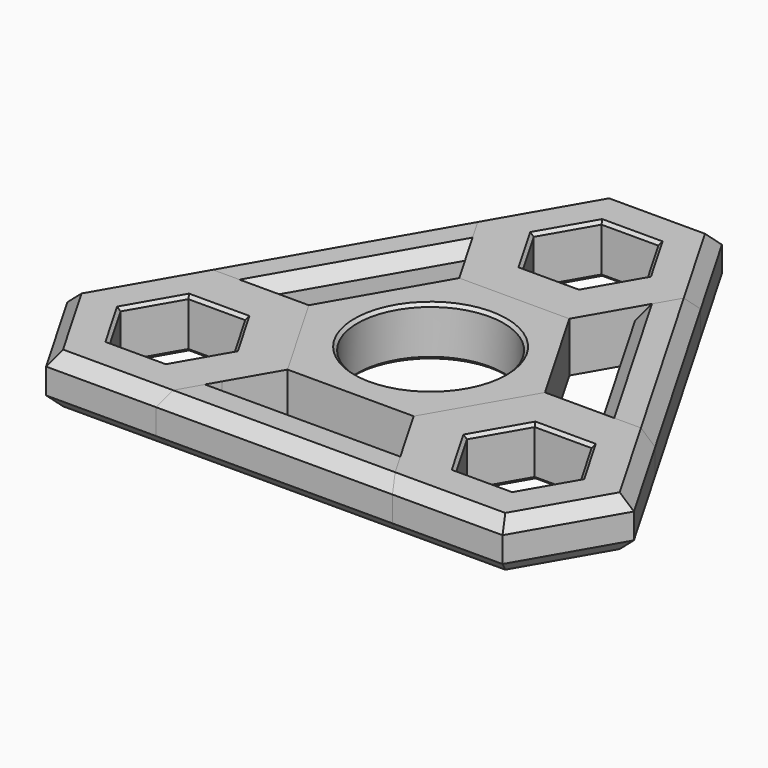
from build123d import *

# Parameters (mm, degrees)
F1_DEPTH  = 6.5
F0_R      = 9.5
F2_DEPTH  = 6.5
F3_SIZE   = 1.6
F4_SIZE   = 1.6
F5_SIZE   = 0.4
F5_2_SIZE = 0.4


with BuildPart() as f1:
    # F0 (on Top) → F1 (new body)
    with BuildSketch(Plane.XY):
        Polygon((-10.738715, 19.8), (-7.159143, 13.6), (7.159143, 13.6), (10.738715, 19.8), (14.318287, 26), (7.159143, 38.4), (-7.159143, 38.4), (-14.318287, 26), align=None)
        Polygon((7.390083, 26), (3.695042, 19.6), (-3.695042, 19.6), (-7.390083, 26), (-3.695042, 32.4), (3.695042, 32.4), align=None, mode=Mode.SUBTRACT)
        Polygon((-8.198374, -13), (-15.357517, -0.6), (-22.51666, -0.6), (-29.675804, -0.6), (-36.834947, -13), (-29.675804, -25.4), (-15.357517, -25.4), (-11.777945, -19.2), align=None)
        Polygon((-18.821619, -19.4), (-26.211702, -19.4), (-29.906744, -13), (-26.211702, -6.6), (-18.821619, -6.6), (-15.126577, -13), align=None, mode=Mode.SUBTRACT)
        Polygon((22.51666, -0.6), (15.357517, -0.6), (8.198374, -13), (11.777945, -19.2), (15.357517, -25.4), (29.675804, -25.4), (36.834947, -13), (29.675804, -0.6), align=None)
        Polygon((26.211702, -6.6), (29.906744, -13), (26.211702, -19.4), (18.821619, -19.4), (15.126577, -13), (18.821619, -6.6), align=None, mode=Mode.SUBTRACT)
    extrude(amount=F1_DEPTH)

    # F4
    f4_edges = [f1.edges().sort_by_distance(p)[0] for p in [
        (-10.738715, 32.2, 6.5),
        (-10.738715, 32.2, 0),
        (-33.255376, -6.8, 6.5),
        (-33.255376, -6.8, 0),
        (10.738715, 32.2, 6.5),
        (10.738715, 32.2, 0),
        (33.255376, -6.8, 6.5),
        (33.255376, -6.8, 0),
        (22.51666, -25.4, 6.5),
        (22.51666, -25.4, 0),
        (-22.51666, -25.4, 6.5),
        (-22.51666, -25.4, 0),
        (33.255376, -19.2, 6.5),
        (33.255376, -19.2, 0),
        (-33.255376, -19.2, 6.5),
        (-33.255376, -19.2, 0),
        (0, 38.4, 6.5),
        (0, 38.4, 0),
    ]]
    chamfer(f4_edges, length=F4_SIZE)

    # F5#2
    f5_2_edges = [f1.edges().sort_by_distance(p)[0] for p in [
        (5.542563, 22.8, 6.5),
        (5.542563, 29.2, 6.5),
        (0, 19.6, 6.5),
        (-5.542563, 22.8, 6.5),
        (-5.542563, 29.2, 6.5),
        (0, 32.4, 6.5),
        (-5.542563, 22.8, 0),
        (0, 19.6, 0),
        (5.542563, 22.8, 0),
        (5.542563, 29.2, 0),
        (0, 32.4, 0),
        (-5.542563, 29.2, 0),
        (-22.51666, -6.6, 0),
        (-28.059223, -9.8, 0),
        (-28.059223, -16.2, 0),
        (-22.51666, -19.4, 0),
        (-16.974098, -16.2, 0),
        (-16.974098, -9.8, 0),
        (-16.974098, -16.2, 6.5),
        (-16.974098, -9.8, 6.5),
        (-22.51666, -6.6, 6.5),
        (-28.059223, -9.8, 6.5),
        (-28.059223, -16.2, 6.5),
        (-22.51666, -19.4, 6.5),
        (22.51666, -19.4, 6.5),
        (28.059223, -16.2, 6.5),
        (28.059223, -9.8, 6.5),
        (22.51666, -6.6, 6.5),
        (16.974098, -9.8, 6.5),
        (16.974098, -16.2, 6.5),
        (22.51666, -19.4, 0),
        (16.974098, -16.2, 0),
        (16.974098, -9.8, 0),
        (22.51666, -6.6, 0),
        (28.059223, -9.8, 0),
        (28.059223, -16.2, 0),
    ]]
    chamfer(f5_2_edges, length=F5_2_SIZE)


with BuildPart() as f2:
    # F0 (on Top) → F2 (new body)
    with BuildSketch(Plane.XY):
        Polygon((-22.51666, -0.6), (-10.738715, 19.8), (-14.318287, 26), (-29.675804, -0.6), align=None)
        Polygon((7.159143, 13.6), (-7.159143, 13.6), (-15.357517, -0.6), (-8.198374, -13), (8.198374, -13), (15.357517, -0.6), align=None)
        Circle(F0_R, mode=Mode.SUBTRACT)
        Polygon((11.777945, -19.2), (-11.777945, -19.2), (-15.357517, -25.4), (15.357517, -25.4), align=None)
        Polygon((14.318287, 26), (10.738715, 19.8), (22.51666, -0.6), (29.675804, -0.6), align=None)
    extrude(amount=F2_DEPTH)

    # F3
    f3_edges = [f2.edges().sort_by_distance(p)[0] for p in [
        (-21.997045, 12.7, 6.5),
        (-21.997045, 12.7, 0),
        (0, -25.4, 6.5),
        (0, -25.4, 0),
        (21.997045, 12.7, 6.5),
        (21.997045, 12.7, 0),
        (16.627688, 9.6, 6.5),
        (0, -19.2, 6.5),
        (-16.627688, 9.6, 0),
        (-16.627688, 9.6, 6.5),
        (16.627688, 9.6, 0),
        (0, -19.2, 0),
    ]]
    chamfer(f3_edges, length=F3_SIZE)

    # F5
    f5_edges = [f2.edges().sort_by_distance(p)[0] for p in [
        (-9.5, 0, 6.5),
        (-9.5, 0, 0),
    ]]
    chamfer(f5_edges, length=F5_SIZE)


solid = Compound([f1.part, f2.part])
